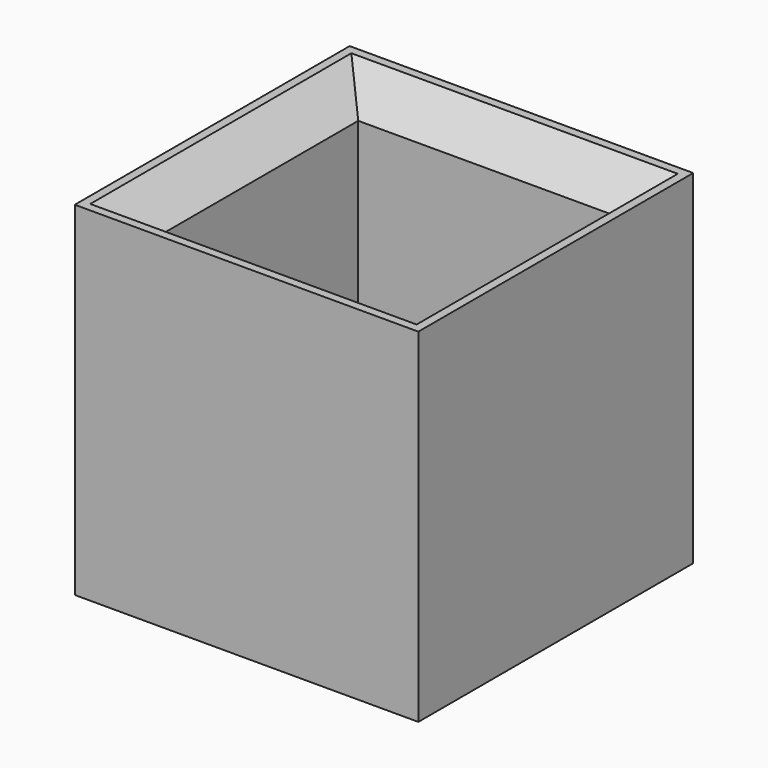
from build123d import *

# Parameters (mm, degrees)
F0_W     = 20
F0_H     = 20
F1_DEPTH = 20
F2_T     = -2.5
F3_SIZE  = 2


with BuildPart() as f1:
    # F0 (on Front) → F1 (new body)
    with BuildSketch(Plane.XZ):
        with Locations((-10, 10)):
            Rectangle(F0_W, F0_H)
    extrude(amount=F1_DEPTH)

    # F2
    f2_openings = [f1.faces().sort_by_distance(p)[0] for p in [
        (-10, -10, 20),
    ]]
    offset(amount=F2_T, openings=f2_openings)

    # F3
    f3_edges = [f1.edges().sort_by_distance(p)[0] for p in [
        (-17.5, -10, 20),
        (-10, -2.5, 20),
        (-2.5, -10, 20),
        (-10, -17.5, 20),
    ]]
    chamfer(f3_edges, length=F3_SIZE)


solid = f1.part
